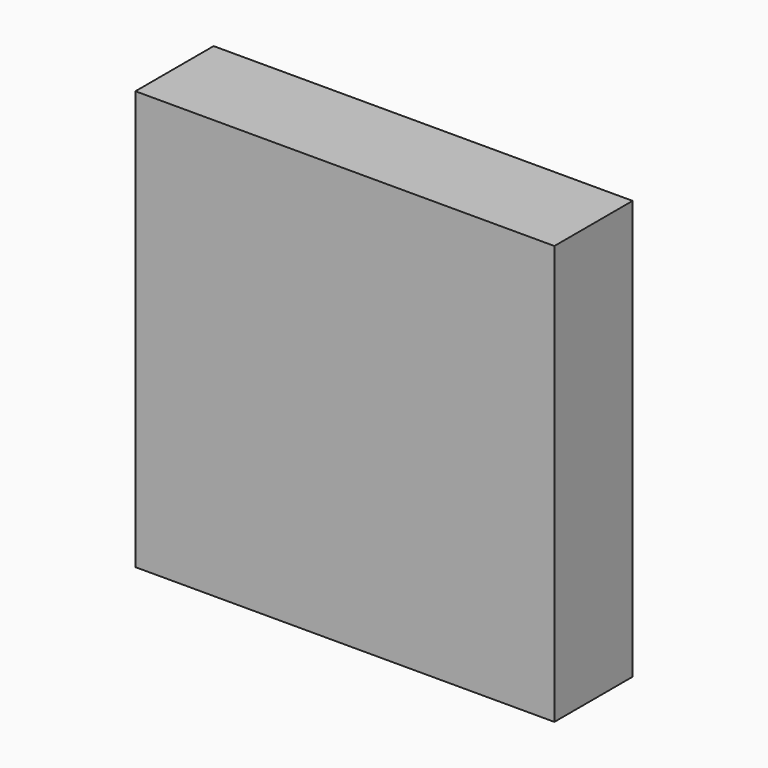
from build123d import *

# Parameters (mm, degrees)
PAD_DEPTH         = 28
CYLINDER_R        = 2.5
CYLINDER_DEPTH    = 6
CYLINDER001_R     = 2.5
CYLINDER001_DEPTH = 6
CYLINDER002_R     = 2.5
CYLINDER002_DEPTH = 6
CYLINDER003_R     = 2.5
CYLINDER003_DEPTH = 6


with BuildPart() as part:
    # Sketch → Pad (new body)
    with BuildSketch(Plane.XZ):
        Polygon((-60, 0), (-60, -60), (60, -60), (60, 60), (-60, 60), align=None)
    extrude(amount=PAD_DEPTH)

    # Cylinder → Cylinder (join)
    with BuildSketch(Plane(origin=(-52.5, 6, 52.5), x_dir=(1, 0, 0), z_dir=(0, -1, 0))):
        Circle(CYLINDER_R)
    extrude(amount=CYLINDER_DEPTH)

    # Cylinder001 → Cylinder001 (join)
    with BuildSketch(Plane(origin=(52.5, 6, 52.5), x_dir=(1, 0, 0), z_dir=(0, -1, 0))):
        Circle(CYLINDER001_R)
    extrude(amount=CYLINDER001_DEPTH)

    # Cylinder002 → Cylinder002 (join)
    with BuildSketch(Plane(origin=(52.5, 6, -52.5), x_dir=(1, 0, 0), z_dir=(0, -1, 0))):
        Circle(CYLINDER002_R)
    extrude(amount=CYLINDER002_DEPTH)

    # Cylinder003 → Cylinder003 (join)
    with BuildSketch(Plane(origin=(-52.5, 6, -52.5), x_dir=(1, 0, 0), z_dir=(0, -1, 0))):
        Circle(CYLINDER003_R)
    extrude(amount=CYLINDER003_DEPTH)


solid = part.part
